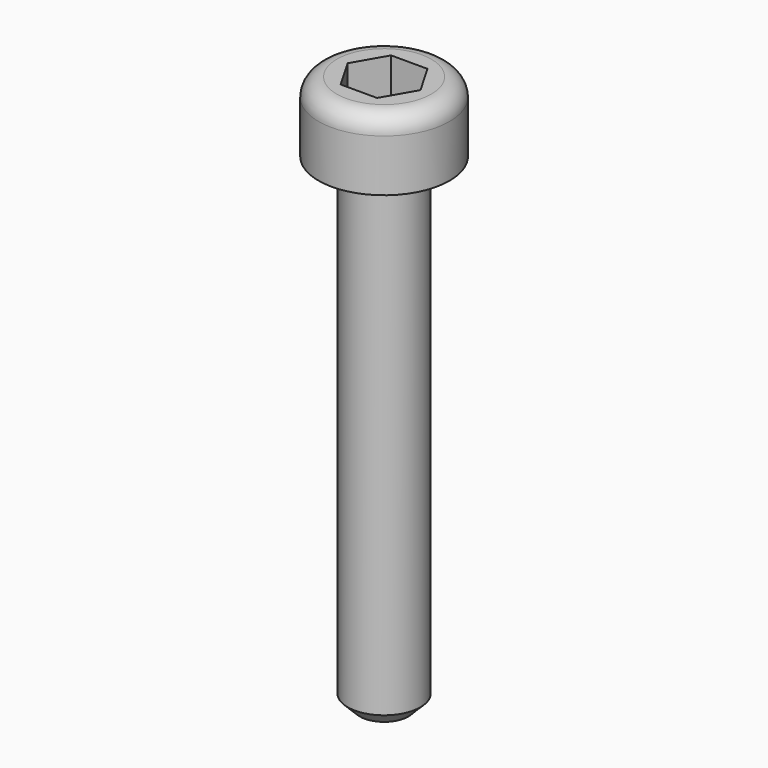
from build123d import *

# Parameters (mm, degrees)
F3_DEPTH = 1.8
F4_R     = 0.75
F5_SIZE  = 0.5


with BuildPart() as f1:
    # F0 (on Front) → F1 (revolve)
    with BuildSketch(Plane.XZ):
        Polygon((0, 22.9), (0, 0), (1.5, 0), (1.5, 20), (2.7, 20), (2.7, 22.9), align=None)
    revolve(axis=Axis((0, 0, 11.45), (0, 0, 1)))

    # F2 (on face) → F3 (cut)
    with BuildSketch(Plane.XY.offset(22.9)):
        Polygon((0.750555, 1.3), (-0.750555, 1.3), (-1.501111, 0), (-0.750555, -1.3), (0.750555, -1.3), (1.501111, 0), align=None)
    extrude(amount=-F3_DEPTH, mode=Mode.SUBTRACT)

    # F4
    f4_edges = [f1.edges().sort_by_distance(p)[0] for p in [
        (-2.7, 0, 22.9),
    ]]
    fillet(f4_edges, radius=F4_R)

    # F5
    f5_edges = [f1.edges().sort_by_distance(p)[0] for p in [
        (-1.5, 0, 0),
    ]]
    chamfer(f5_edges, length=F5_SIZE)


solid = f1.part
